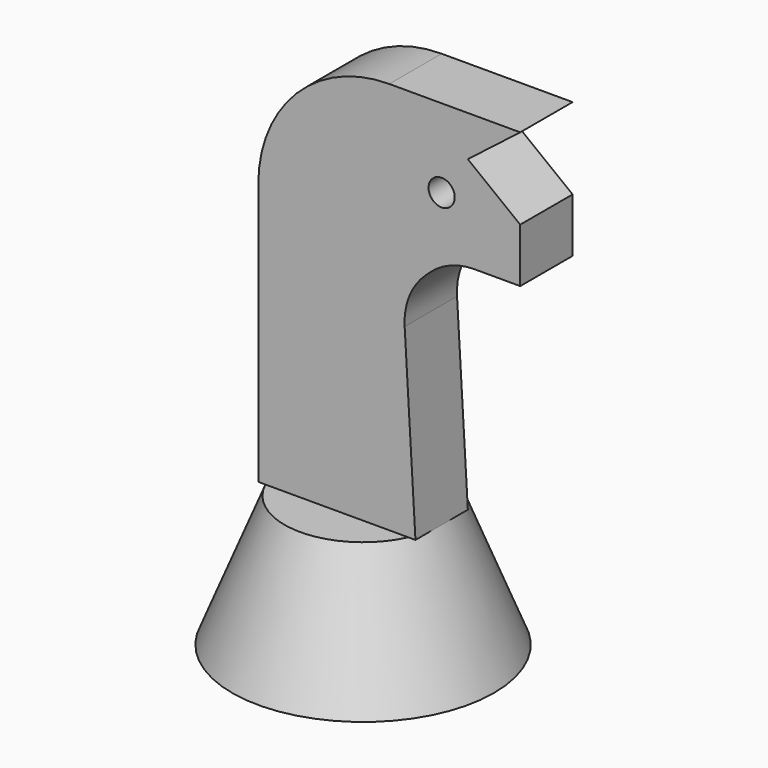
from build123d import *

# Parameters (mm, degrees)
F2_R     = 1.27
F3_DEPTH = 3.175


with BuildPart() as f1:
    # F0 (on Front) → F1 (revolve)
    with BuildSketch(Plane.XZ):
        Polygon((12.7, 12.7), (12.7, 0), (25.4, 0), (20.32, 12.7), align=None)
    revolve(axis=Axis((12.7, 0, 6.35), (0, 0, -1)))

    # F2 (on Front) → F3 (join, symmetric)
    with BuildSketch(Plane.XZ):
        with BuildLine():
            Line((5.08, 38.1), (5.08, 12.7))
            Line((5.08, 12.7), (20.32, 12.7))
            Line((20.32, 12.7), (19.27348, 30.575806))
            ThreePointArc((19.27348, 30.575806), (19.722952, 33.320582), (21.302351, 35.609974))
            Line((21.302351, 35.609974), (21.707207, 35.984202))
            ThreePointArc((21.707207, 35.984202), (23.703164, 37.234395), (26.017482, 37.671153))
            Line((26.017482, 37.671153), (30.48, 37.671153))
            Line((30.48, 37.671153), (30.48, 42.921569))
            Line((30.48, 42.921569), (25.4, 46.860785))
            Line((25.4, 46.860785), (30.48, 50.8))
            Line((30.48, 50.8), (17.78, 50.8))
            ThreePointArc((17.78, 50.8), (8.799744, 47.080256), (5.08, 38.1))
        make_face()
        with Locations((22.86, 43.18)):
            Circle(F2_R, mode=Mode.SUBTRACT)
    extrude(amount=F3_DEPTH, both=True)


solid = f1.part
